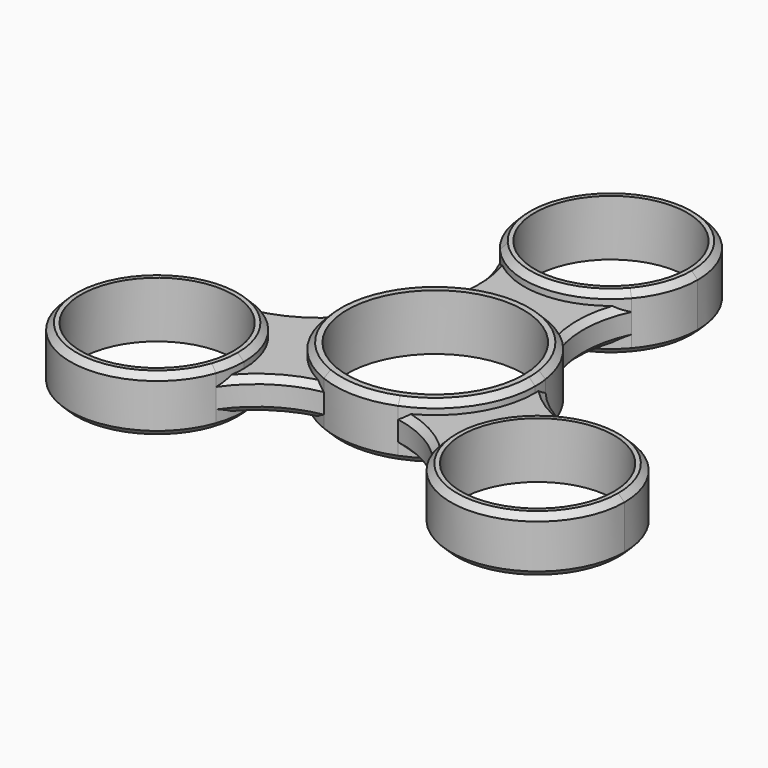
from build123d import *

# Parameters (mm, degrees)
F0_R      = 11
F1_DEPTH  = 7
F0_R_2    = 9.525
F2_DEPTH  = 4
F4_SIZE   = 0.762
F4_2_SIZE = 0.762
F4_3_SIZE = 0.762
F4_4_SIZE = 0.762
F4_5_SIZE = 0.762
F4_6_SIZE = 0.762
F5_SIZE   = 0.762


with BuildPart() as f1:
    # F0 (on Top) → F1 (new body)
    with BuildSketch(Plane.XY):
        with BuildLine():
            ThreePointArc((7.7129085609, 9.8091523887), (0, 12.4783183584), (-7.7129085609, 9.8091523887))
            ThreePointArc((-7.7129085609, 9.8091523887), (-10.8065406949, 6.2391591792), (-12.3514294386, 1.7749985565))
            ThreePointArc((-12.3514294386, 1.7749985565), (-10.8065406949, -6.2391591792), (-4.6385208777, -11.5841509452))
            ThreePointArc((-4.6385208777, -11.5841509452), (0, -12.4783183584), (4.6385208777, -11.5841509452))
            ThreePointArc((4.6385208777, -11.5841509452), (10.3341513749, -6.993836173), (12.4783183584, 0))
            ThreePointArc((12.4783183584, 0), (12.4465557037, 0.8897641083), (12.3514294386, 1.7749985565))
            ThreePointArc((12.3514294386, 1.7749985565), (10.8065406949, 6.2391591792), (7.7129085609, 9.8091523887))
        make_face()
        Circle(F0_R, mode=Mode.SUBTRACT)
    extrude(amount=F1_DEPTH)

    # F5
    f5_edges = [f1.edges().sort_by_distance(p)[0] for p in [
        (4.638521, 11.584151, 0),
        (4.638521, 11.584151, 7),
    ]]
    chamfer(f5_edges, length=F5_SIZE)


with BuildPart() as f1b:
    # F0 (on Top) → F1, piece 2 (new body)
    with BuildSketch(Plane.XY):
        with BuildLine():
            ThreePointArc((34.5796740347, -13.7108754092), (30.6628901227, -5.3736106775), (21.7451755252, -3.0658962719))
            ThreePointArc((21.7451755252, -3.0658962719), (14.36736977, -8.2950048043), (13.5277318194, -17.2989262787))
            ThreePointArc((13.5277318194, -17.2989262787), (25.567829145, -24.3886371137), (34.5796740347, -13.7108754092))
        make_face()
        with Locations((23.7479328249, -13.7108754092)):
            Circle(F0_R_2, mode=Mode.SUBTRACT)
    extrude(amount=F1_DEPTH)

    # F4
    f4_edges = [f1b.edges().sort_by_distance(p)[0] for p in [
        (33.968134, -10.122825, 7),
        (33.968134, -10.122825, 0),
    ]]
    chamfer(f4_edges, length=F4_SIZE)


with BuildPart() as f1c:
    # F0 (on Top) → F1, piece 3 (new body)
    with BuildSketch(Plane.XY):
        with BuildLine():
            ThreePointArc((-12.9161916152, -13.7108754092), (-15.4106680933, -6.7959181114), (-21.7451755252, -3.0658962719))
            ThreePointArc((-21.7451755252, -3.0658962719), (-33.1284958798, -19.126746014), (-13.5277318194, -17.2989262787))
            ThreePointArc((-13.5277318194, -17.2989262787), (-13.0701711204, -15.5307717293), (-12.9161916152, -13.7108754092))
        make_face()
        with Locations((-23.7479328249, -13.7108754092)):
            Circle(F0_R_2, mode=Mode.SUBTRACT)
    extrude(amount=F1_DEPTH)

    # F4#2
    f4_2_edges = [f1c.edges().sort_by_distance(p)[0] for p in [
        (-33.968134, -10.122825, 0),
        (-33.968134, -10.122825, 7),
    ]]
    chamfer(f4_2_edges, length=F4_2_SIZE)


with BuildPart() as f1d:
    # F0 (on Top) → F1, piece 4 (new body)
    with BuildSketch(Plane.XY):
        with BuildLine():
            ThreePointArc((8.2174437058, 20.3648225505), (10.1571610518, 23.6589464115), (10.8317412098, 27.4217508183))
            ThreePointArc((10.8317412098, 27.4217508183), (-3.7628044068, 37.5789118701), (-8.2174437058, 20.3648225505))
            ThreePointArc((-8.2174437058, 20.3648225505), (0, 16.5900096086), (8.2174437058, 20.3648225505))
        make_face()
        with Locations((0, 27.4217508183)):
            Circle(F0_R_2, mode=Mode.SUBTRACT)
    extrude(amount=F1_DEPTH)

    # F4#3
    f4_3_edges = [f1d.edges().sort_by_distance(p)[0] for p in [
        (8.217444, 34.478679, 7),
        (8.217444, 34.478679, 0),
    ]]
    chamfer(f4_3_edges, length=F4_3_SIZE)


with BuildPart() as f2:
    # F0 (on Top) → F2 (new body)
    with BuildSketch(Plane.XY):
        with BuildLine():
            ThreePointArc((21.7451755252, -3.0658962719), (16.5590514817, -1.5948393798), (12.3514294386, 1.7749985565))
            ThreePointArc((12.3514294386, 1.7749985565), (12.4465557037, 0.8897641083), (12.4783183584, 0))
            ThreePointArc((12.4783183584, 0), (10.3341513749, -6.993836173), (4.6385208777, -11.5841509452))
            ThreePointArc((4.6385208777, -11.5841509452), (9.6606971587, -13.5431395558), (13.5277318194, -17.2989262787))
            ThreePointArc((13.5277318194, -17.2989262787), (14.36736977, -8.2950048043), (21.7451755252, -3.0658962719))
        make_face()
    extrude(amount=F2_DEPTH)


with BuildPart() as f2b:
    # F0 (on Top) → F2, piece 2 (new body)
    with BuildSketch(Plane.XY):
        with BuildLine():
            ThreePointArc((-4.6385208777, -11.5841509452), (-10.8065406949, -6.2391591792), (-12.3514294386, 1.7749985565))
            ThreePointArc((-12.3514294386, 1.7749985565), (-16.5590514817, -1.5948393798), (-21.7451755252, -3.0658962719))
            ThreePointArc((-21.7451755252, -3.0658962719), (-15.4106680933, -6.7959181114), (-12.9161916152, -13.7108754092))
            ThreePointArc((-12.9161916152, -13.7108754092), (-13.0701711204, -15.5307717293), (-13.5277318194, -17.2989262787))
            ThreePointArc((-13.5277318194, -17.2989262787), (-9.6606971587, -13.5431395558), (-4.6385208777, -11.5841509452))
        make_face()
    extrude(amount=F2_DEPTH)


with BuildPart() as f2c:
    # F0 (on Top) → F2, piece 3 (new body)
    with BuildSketch(Plane.XY):
        with BuildLine():
            ThreePointArc((8.2174437058, 20.3648225505), (0, 16.5900096086), (-8.2174437058, 20.3648225505))
            ThreePointArc((-8.2174437058, 20.3648225505), (-6.898354323, 15.1379789356), (-7.7129085609, 9.8091523887))
            ThreePointArc((-7.7129085609, 9.8091523887), (0, 12.4783183584), (7.7129085609, 9.8091523887))
            ThreePointArc((7.7129085609, 9.8091523887), (6.898354323, 15.1379789356), (8.2174437058, 20.3648225505))
        make_face()
    extrude(amount=F2_DEPTH)


with BuildPart() as f2c_1:
    # F3: moved
    add(f2c.part.moved(Location((0, 0, 1.5))))

    # F4#5
    f4_5_edges = [f2c_1.edges().sort_by_distance(p)[0] for p in [
        (6.898354, 15.137979, 5.5),
        (6.898354, 15.137979, 1.5),
        (-6.898354, 15.137979, 1.5),
        (-6.898354, 15.137979, 5.5),
    ]]
    chamfer(f4_5_edges, length=F4_5_SIZE)


with BuildPart() as f2b_1:
    # F3: moved
    add(f2b.part.moved(Location((0, 0, 1.5))))

    # F4#6
    f4_6_edges = [f2b_1.edges().sort_by_distance(p)[0] for p in [
        (-9.660697, -13.54314, 1.5),
        (-9.660697, -13.54314, 5.5),
        (-16.559051, -1.594839, 5.5),
        (-16.559051, -1.594839, 1.5),
    ]]
    chamfer(f4_6_edges, length=F4_6_SIZE)


with BuildPart() as f2_1:
    # F3: moved
    add(f2.part.moved(Location((0, 0, 1.5))))

    # F4#4
    f4_4_edges = [f2_1.edges().sort_by_distance(p)[0] for p in [
        (9.660697, -13.54314, 5.5),
        (9.660697, -13.54314, 1.5),
        (16.559051, -1.594839, 1.5),
        (16.559051, -1.594839, 5.5),
    ]]
    chamfer(f4_4_edges, length=F4_4_SIZE)


solid = Compound([f1.part, f1b.part, f1c.part, f1d.part, f2c_1.part, f2b_1.part, f2_1.part])
